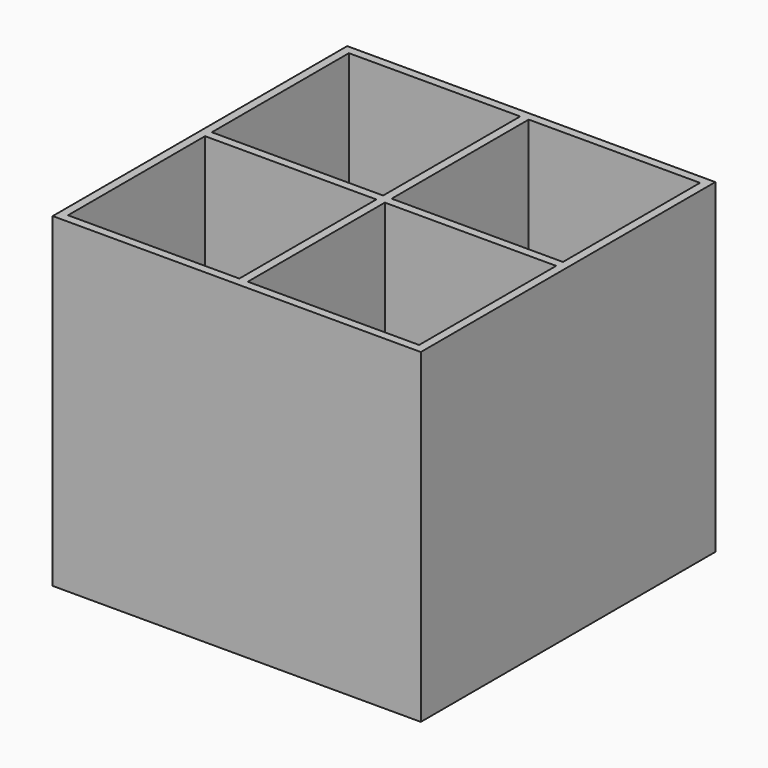
from build123d import *

# Parameters (mm, degrees)
F0_W     = 130
F0_H     = 130
F0_W_2   = 60.5
F0_H_2   = 3
F0_W_3   = 3
F0_H_3   = 60.5
F1_DEPTH = 110
F2_DEPTH = 5


with BuildPart() as f1:
    # F0 (on Top) → F1 (new body)
    with BuildSketch(Plane.XY):
        Rectangle(F0_W, F0_H)
        Polygon((-62, 1.5), (-62, 62), (-1.5, 62), (1.5, 62), (62, 62), (62, 1.5), (62, -1.5), (62, -62), (1.5, -62), (-1.5, -62), (-62, -62), (-62, -1.5), align=None, mode=Mode.SUBTRACT)
        with Locations((-31.75, 0)):
            Rectangle(F0_W_2, F0_H_2)
        Rectangle(F0_W_3, F0_H_2)
        with Locations((31.75, 0)):
            Rectangle(F0_W_2, F0_H_2)
        with Locations((0, 31.75)):
            Rectangle(F0_W_3, F0_H_3)
        with Locations((0, -31.75)):
            Rectangle(F0_W_3, F0_H_3)
    extrude(amount=F1_DEPTH)

    # F0 (on Top) → F2 (join)
    with BuildSketch(Plane.XY):
        Rectangle(F0_W, F0_H)
        Polygon((-62, 1.5), (-62, 62), (-1.5, 62), (1.5, 62), (62, 62), (62, 1.5), (62, -1.5), (62, -62), (1.5, -62), (-1.5, -62), (-62, -62), (-62, -1.5), align=None, mode=Mode.SUBTRACT)
        with Locations((-31.75, 31.75)):
            Rectangle(F0_W_2, F0_H_3)
        with Locations((31.75, 31.75)):
            Rectangle(F0_W_2, F0_H_3)
        with Locations((-31.75, -31.75)):
            Rectangle(F0_W_2, F0_H_3)
        with Locations((31.75, -31.75)):
            Rectangle(F0_W_2, F0_H_3)
        with Locations((0, 31.75)):
            Rectangle(F0_W_3, F0_H_3)
        with Locations((0, -31.75)):
            Rectangle(F0_W_3, F0_H_3)
        with Locations((-31.75, 0)):
            Rectangle(F0_W_2, F0_H_2)
        with Locations((31.75, 0)):
            Rectangle(F0_W_2, F0_H_2)
        Rectangle(F0_W_3, F0_H_2)
    extrude(amount=-F2_DEPTH)


solid = f1.part
